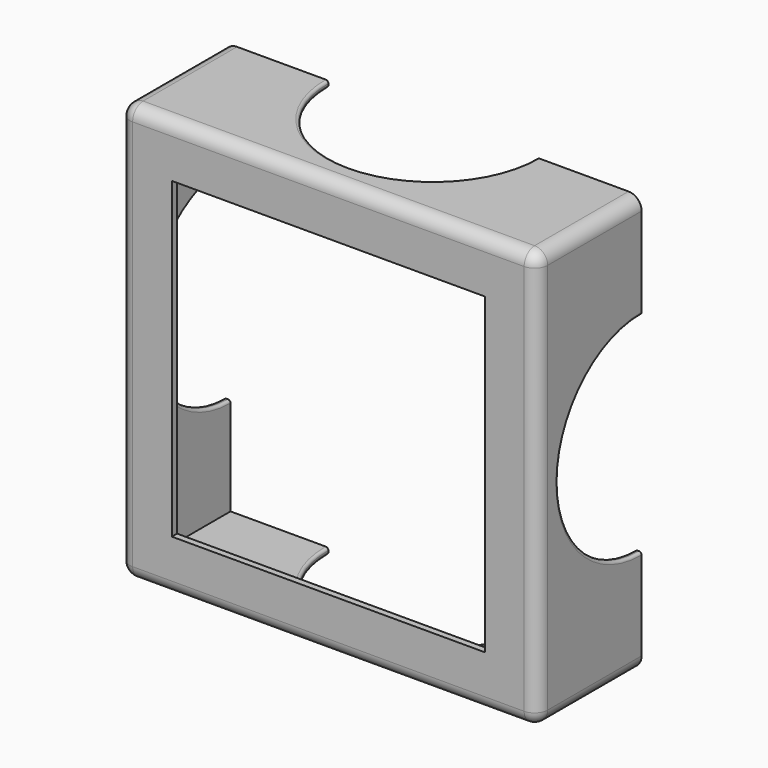
from build123d import *

# Parameters (mm, degrees)
F0_W      = 160
F0_H      = 160
F1_DEPTH  = 50
F2_T      = -2.5
F4_DEPTH  = 25
F6_DEPTH  = 25
F8_DEPTH  = 25
F10_DEPTH = 25
F11_W     = 120
F11_H     = 120
F12_DEPTH = 25
F13_R     = 5
F14_R     = 1


with BuildPart() as f1:
    # F0 (on Front) → F1 (new body)
    with BuildSketch(Plane.XZ):
        Rectangle(F0_W, F0_H)
    extrude(amount=F1_DEPTH)

    # F2
    f2_openings = [f1.faces().sort_by_distance(p)[0] for p in [
        (0, 0, 0),
    ]]
    offset(amount=F2_T, openings=f2_openings)

    # F3 (on face) → F4 (cut)
    with BuildSketch(Plane(origin=(0, 0, -80), x_dir=(1, 0, 0), z_dir=(0, 0, -1))):
        with BuildLine():
            Line((-40, 0), (40, 0))
            ThreePointArc((40, 0), (0, 40), (-40, 0))
        make_face()
    extrude(amount=-F4_DEPTH, mode=Mode.SUBTRACT)

    # F5 (on face) → F6 (cut)
    with BuildSketch(Plane(origin=(-80, 0, 0), x_dir=(0, -1, 0), z_dir=(-1, 0, 0))):
        with BuildLine():
            Line((0, 39.9988864115), (0, -39.9988864115))
            ThreePointArc((0, -39.9988864115), (39.7015274931, 0), (0, 39.9988864115))
        make_face()
    extrude(amount=-F6_DEPTH, mode=Mode.SUBTRACT)

    # F7 (on face) → F8 (cut)
    with BuildSketch(Plane.XY.offset(80)):
        with BuildLine():
            Line((40, 0), (-40, 0))
            ThreePointArc((-40, 0), (0, -40), (40, 0))
        make_face()
    extrude(amount=-F8_DEPTH, mode=Mode.SUBTRACT)

    # F9 (on face) → F10 (cut)
    with BuildSketch(Plane.YZ.offset(80)):
        with BuildLine():
            Line((0, -39.999914752), (0, 39.999914752))
            ThreePointArc((0, 39.999914752), (-40.0825822808, 0), (0, -39.999914752))
        make_face()
    extrude(amount=-F10_DEPTH, mode=Mode.SUBTRACT)

    # F11 (on face) → F12 (cut)
    with BuildSketch(Plane.XZ.offset(50)):
        Rectangle(F11_W, F11_H)
    extrude(amount=-F12_DEPTH, mode=Mode.SUBTRACT)

    # F13
    f13_edges = [f1.edges().sort_by_distance(p)[0] for p in [
        (80, -25, 80),
        (0, -50, 80),
        (80, -50, 0),
        (80, -25, -80),
        (0, -50, -80),
        (-80, -25, -80),
        (-80, -50, 0),
        (-80, -25, 80),
    ]]
    fillet(f13_edges, radius=F13_R)

    # F14
    f14_edges = [f1.edges().sort_by_distance(p)[0] for p in [
        (0, -40, -77.5),
        (0, -40, -80),
        (77.5, -40.082582, 0),
        (80, -40.082582, 0),
        (0, -40, 77.5),
        (0, -40, 80),
        (-77.5, -39.701527, 0),
        (-80, -39.701527, 0),
    ]]
    fillet(f14_edges, radius=F14_R)


solid = f1.part
